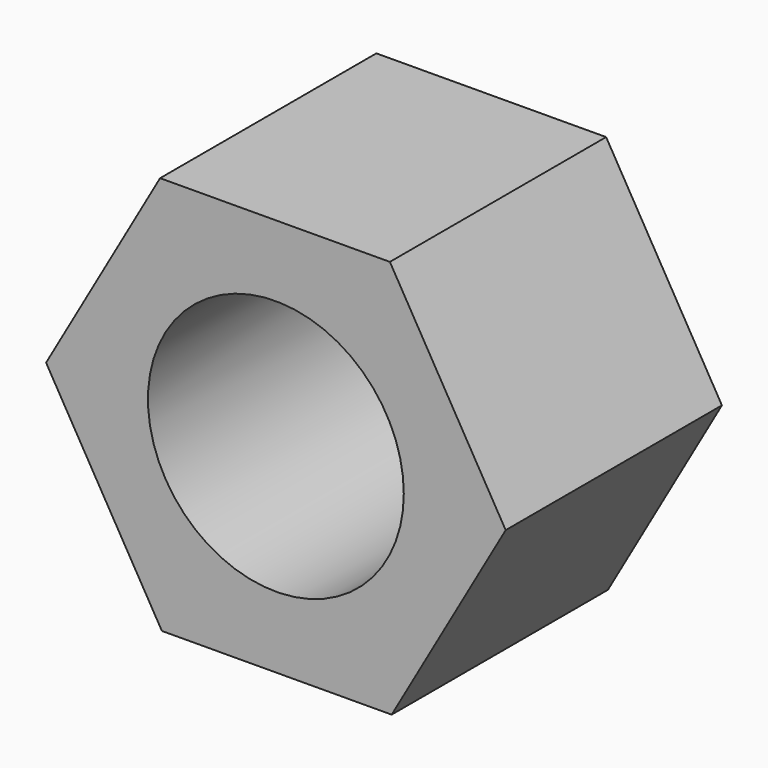
from build123d import *

# Parameters (mm, degrees)
F1_R     = 20.674401
F2_DEPTH = 43.688


with BuildPart() as f2:
    # F1 (on face) → F2 (new body)
    with BuildSketch(Plane.XZ):
        Polygon((37.142407, 0.166241), (18.427235, 32.249388), (-18.715172, 32.083147), (-37.142407, -0.166241), (-18.427235, -32.249388), (18.715172, -32.083147), align=None)
        Circle(F1_R, mode=Mode.SUBTRACT)
    extrude(amount=F2_DEPTH)


solid = f2.part
